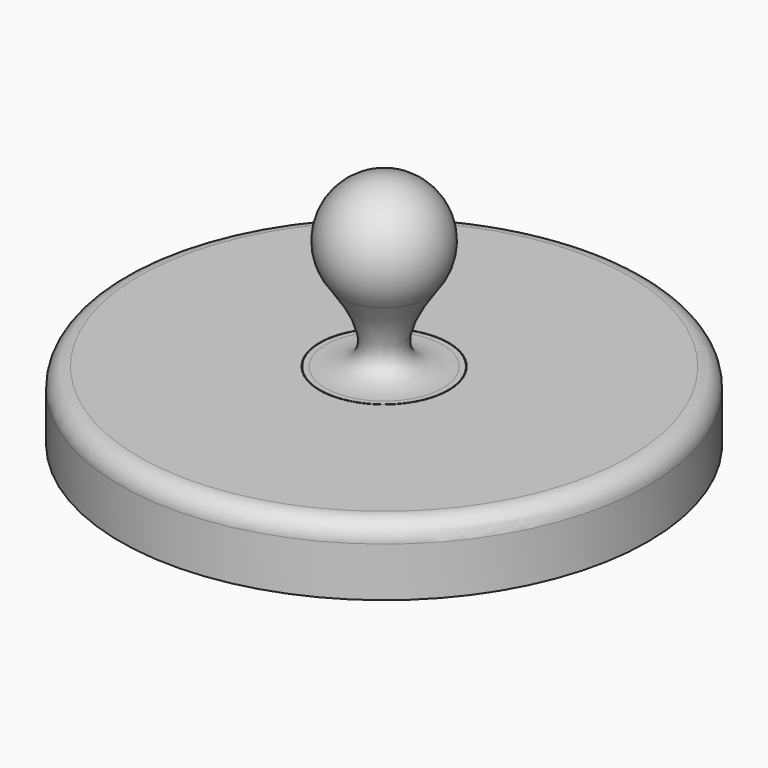
from build123d import *

# Parameters (mm, degrees)
F0_R     = 69.5
F0_R_2   = 66.5
F1_DEPTH = 18
F2_DEPTH = 15
F3_R     = 5
F4_R     = 17
F5_DEPTH = 18.001
F4_R_2   = 24
F6_DEPTH = 16.5


with BuildPart() as f1:
    # F0 (on Top) → F1 (new body)
    with BuildSketch(Plane.XY):
        Circle(F0_R)
        Circle(F0_R_2, mode=Mode.SUBTRACT)
        Circle(F0_R_2)
    extrude(amount=F1_DEPTH)

    # F0 (on Top) → F2 (cut)
    with BuildSketch(Plane.XY):
        Circle(F0_R_2)
    extrude(amount=F2_DEPTH, mode=Mode.SUBTRACT)

    # F3
    f3_edges = [f1.edges().sort_by_distance(p)[0] for p in [
        (-69.5, 0, 18),
    ]]
    fillet(f3_edges, radius=F3_R)

    # F4 (on Top) → F5 (cut, through all)
    with BuildSketch(Plane.XY):
        Circle(F4_R)
    extrude(amount=F5_DEPTH, mode=Mode.SUBTRACT)

    # F4 (on Top) → F6 (cut)
    with BuildSketch(Plane.XY):
        Circle(F4_R_2)
        Circle(F4_R, mode=Mode.SUBTRACT)
    extrude(amount=F6_DEPTH, mode=Mode.SUBTRACT)


with BuildPart() as f8:
    # F7 (on Front) → F8 (revolve)
    with BuildSketch(Plane.XZ):
        with BuildLine():
            Line((0, 32.16504), (0, 62.16504))
            ThreePointArc((0, 62.16504), (-13.572853, 53.550779), (-11.556359, 37.602061))
            ThreePointArc((-11.556359, 37.602061), (-6.385739, 33.592187), (0, 32.16504))
        make_face()
        with BuildLine():
            ThreePointArc((0, 32.16504), (-6.385739, 33.592187), (-11.556359, 37.602061))
            add(Edge.make_bspline(
                [(-11.556359, 37.602061), (0, 21.309038), (-6.51616, 18), (-15.437647, 18)],
                knots=[0, 0, 0, 0, 19.982623, 19.982623, 19.982623, 19.982623], degree=3))
            Line((-15.437647, 18), (0, 18))
            Line((0, 18), (0, 32.16504))
        make_face()
        Polygon((0, 18), (-15.437647, 18), (-16.85, 18), (-16.85, 16.35), (-23.7, 16.35), (-23.7, 15), (0, 15), align=None)
    revolve(axis=Axis((0, 0, 38.341664), (0, 0, -1)))


solid = Compound([f1.part, f8.part])
